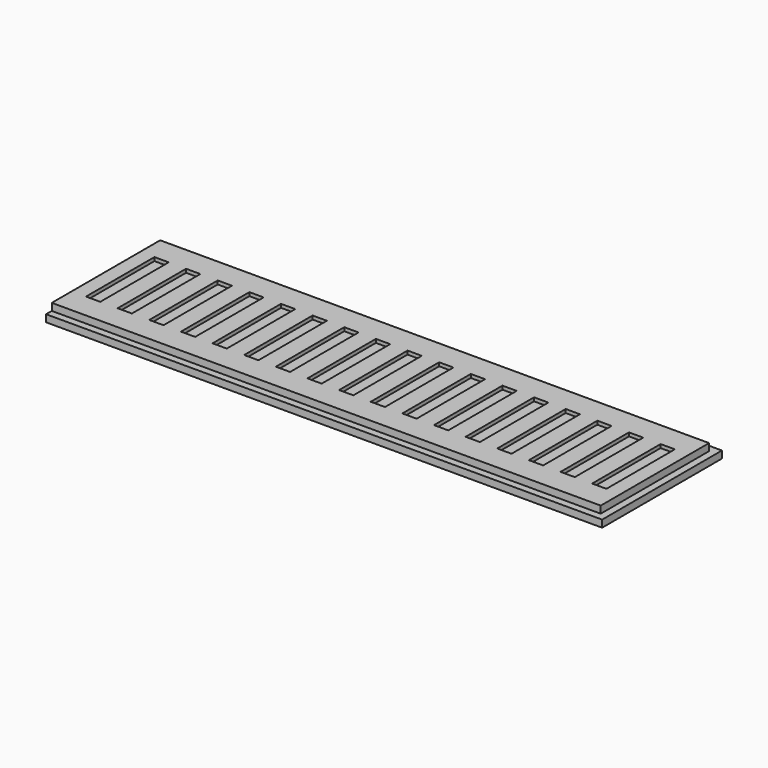
from build123d import *

# Parameters (mm, degrees)
SKETCH_W            = 78
SKETCH_H            = 21
PAD_DEPTH           = 1
SKETCH001_W         = 77
SKETCH001_H         = 19
PAD001_DEPTH        = 1
SKETCH002_W         = 2
SKETCH002_H         = 12
POCKET_DEPTH        = 0.5
LINEARPATTERN_COUNT = 17
LINEARPATTERN_PITCH = 4.4375


with BuildPart() as part:
    # Sketch → Pad (new body)
    with BuildSketch(Plane.XY):
        with Locations((39, 10.5)):
            Rectangle(SKETCH_W, SKETCH_H)
    extrude(amount=PAD_DEPTH)

    # Sketch001 (on Face6 of Pad) → Pad001 (join)
    with BuildSketch(Plane.XY.offset(1)):
        with Locations((38.5, 10.5)):
            Rectangle(SKETCH001_W, SKETCH001_H)
    extrude(amount=PAD001_DEPTH)

    # Sketch002 (on Face11 of Pad001) → Pocket (cut)
    with BuildSketch(Plane.XY.offset(2)):
        with Locations((3, 10.5)):
            Rectangle(SKETCH002_W, SKETCH002_H)
    pocket = extrude(amount=-POCKET_DEPTH, mode=Mode.SUBTRACT)

    # LinearPattern: Pocket ×17
    with Locations(*[(i * LINEARPATTERN_PITCH, 0, 0) for i in range(1, LINEARPATTERN_COUNT)]):
        add(pocket, mode=Mode.SUBTRACT)


solid = part.part
